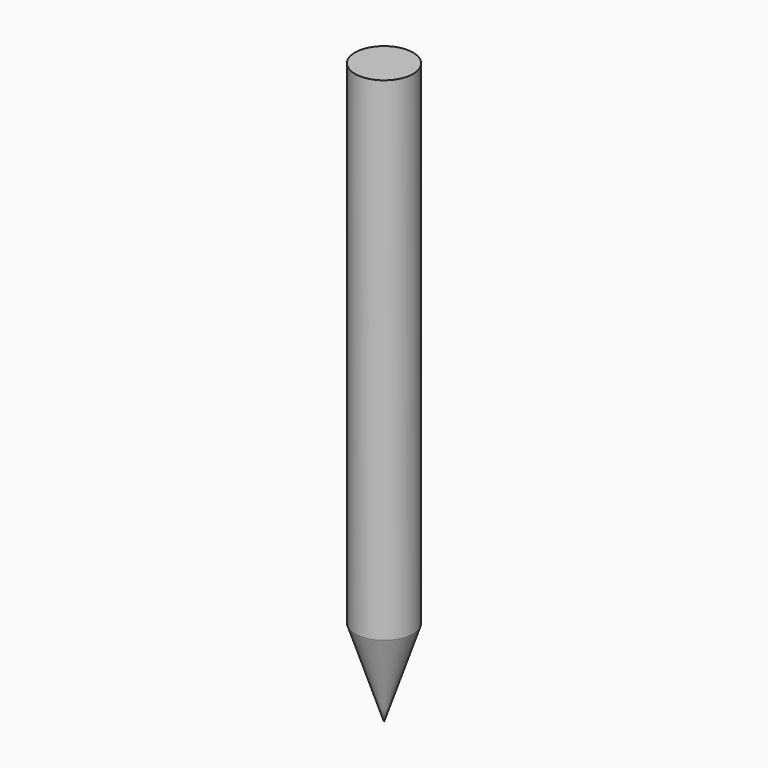
from build123d import *

# Parameters (mm, degrees)
F0_R     = 6.35
F1_DEPTH = 127
F2_SIZE2 = 6.35
F2_SIZE  = 19.05


with BuildPart() as f1:
    # F0 (on Top) → F1 (new body)
    with BuildSketch(Plane.XY):
        Circle(F0_R)
    extrude(amount=F1_DEPTH)

    # F2
    f2_edges = [f1.edges().sort_by_distance(p)[0] for p in [
        (-6.35, 0, 0),
    ]]
    chamfer(f2_edges, length=F2_SIZE, length2=F2_SIZE2)


solid = f1.part
